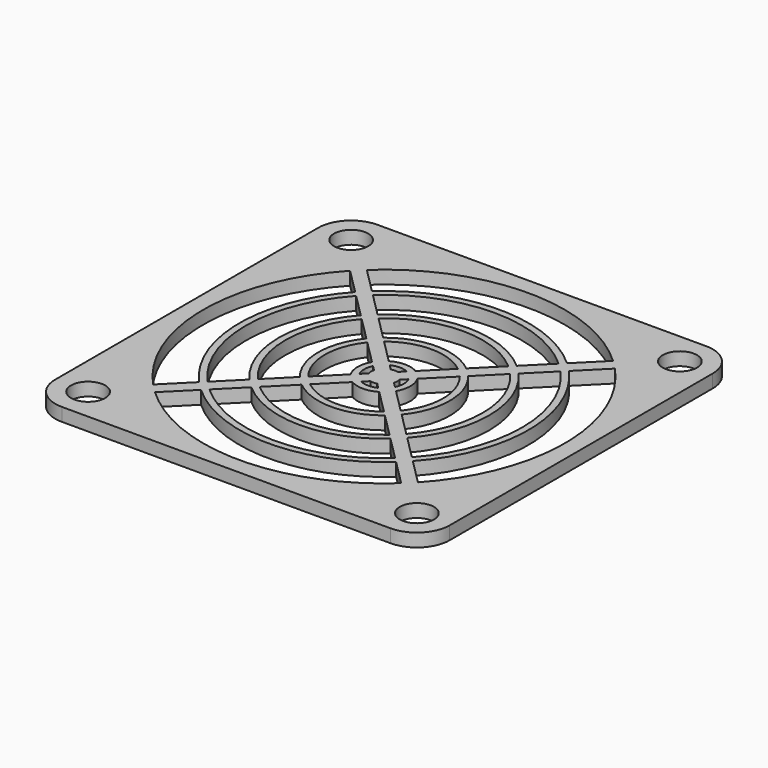
from build123d import *

# Parameters (mm, degrees)
F0_W     = 60
F0_H     = 60
F0_R     = 2.6
F1_DEPTH = 2
F2_R     = 5


with BuildPart() as f1:
    # F0 (on Top) → F1 (new body)
    with BuildSketch(Plane.XY):
        Rectangle(F0_W, F0_H)
        with Locations((-25, -25)):
            Circle(F0_R, mode=Mode.SUBTRACT)
        with BuildLine():
            Line((-15.539504, 14.12529), (-11.998697, 10.584483))
            ThreePointArc((-11.998697, 10.584483), (-16, 0), (-11.998697, -10.584483))
            Line((-11.998697, -10.584483), (-15.539504, -14.12529))
            ThreePointArc((-15.539504, -14.12529), (-21, 0), (-15.539504, 14.12529))
        make_face(mode=Mode.SUBTRACT)
        with BuildLine():
            ThreePointArc((18.725469, -20.139683), (0, -27.5), (-18.725469, -20.139683))
            Line((-18.725469, -20.139683), (-14.833163, -16.247377))
            ThreePointArc((-14.833163, -16.247377), (0, -22), (14.833163, -16.247377))
            Line((14.833163, -16.247377), (18.725469, -20.139683))
        make_face(mode=Mode.SUBTRACT)
        with BuildLine():
            ThreePointArc((14.12529, -15.539504), (0, -21), (-14.12529, -15.539504))
            Line((-14.12529, -15.539504), (-10.584483, -11.998697))
            ThreePointArc((-10.584483, -11.998697), (0, -16), (10.584483, -11.998697))
            Line((10.584483, -11.998697), (14.12529, -15.539504))
        make_face(mode=Mode.SUBTRACT)
        with Locations((25, -25)):
            Circle(F0_R, mode=Mode.SUBTRACT)
        with BuildLine():
            Line((-9.875898, -11.290112), (-6.328517, -7.74273))
            ThreePointArc((-6.328517, -7.74273), (0, -10), (6.328517, -7.74273))
            Line((6.328517, -7.74273), (9.875898, -11.290112))
            ThreePointArc((9.875898, -11.290112), (0, -15), (-9.875898, -11.290112))
        make_face(mode=Mode.SUBTRACT)
        with BuildLine():
            Line((-5.617449, -7.031662), (-2.031506, -3.44572))
            ThreePointArc((-2.031506, -3.44572), (0, -4), (2.031506, -3.44572))
            Line((2.031506, -3.44572), (5.617449, -7.031662))
            ThreePointArc((5.617449, -7.031662), (0, -9), (-5.617449, -7.031662))
        make_face(mode=Mode.SUBTRACT)
        with BuildLine():
            Line((0.517638, -1.931852), (1.292893, -2.707107))
            ThreePointArc((1.292893, -2.707107), (0, -3), (-1.292893, -2.707107))
            Line((-1.292893, -2.707107), (-0.517638, -1.931852))
            ThreePointArc((-0.517638, -1.931852), (0, -2), (0.517638, -1.931852))
        make_face(mode=Mode.SUBTRACT)
        with BuildLine():
            Line((-20.139683, 18.725469), (-16.247377, 14.833163))
            ThreePointArc((-16.247377, 14.833163), (-22, 0), (-16.247377, -14.833163))
            Line((-16.247377, -14.833163), (-20.139683, -18.725469))
            ThreePointArc((-20.139683, -18.725469), (-27.5, 0), (-20.139683, 18.725469))
        make_face(mode=Mode.SUBTRACT)
        with BuildLine():
            ThreePointArc((-11.290112, -9.875898), (-15, 0), (-11.290112, 9.875898))
            Line((-11.290112, 9.875898), (-7.74273, 6.328517))
            ThreePointArc((-7.74273, 6.328517), (-10, 0), (-7.74273, -6.328517))
            Line((-7.74273, -6.328517), (-11.290112, -9.875898))
        make_face(mode=Mode.SUBTRACT)
        with BuildLine():
            ThreePointArc((-7.031662, -5.617449), (-9, 0), (-7.031662, 5.617449))
            Line((-7.031662, 5.617449), (-3.44572, 2.031506))
            ThreePointArc((-3.44572, 2.031506), (-4, 0), (-3.44572, -2.031506))
            Line((-3.44572, -2.031506), (-7.031662, -5.617449))
        make_face(mode=Mode.SUBTRACT)
        with BuildLine():
            ThreePointArc((-2.707107, -1.292893), (-3, 0), (-2.707107, 1.292893))
            Line((-2.707107, 1.292893), (-1.931852, 0.517638))
            ThreePointArc((-1.931852, 0.517638), (-2, 0), (-1.931852, -0.517638))
            Line((-1.931852, -0.517638), (-2.707107, -1.292893))
        make_face(mode=Mode.SUBTRACT)
        with Locations((-25, 25)):
            Circle(F0_R, mode=Mode.SUBTRACT)
        with BuildLine():
            Line((2.707107, -1.292893), (1.931852, -0.517638))
            ThreePointArc((1.931852, -0.517638), (2, 0), (1.931852, 0.517638))
            Line((1.931852, 0.517638), (2.707107, 1.292893))
            ThreePointArc((2.707107, 1.292893), (3, 0), (2.707107, -1.292893))
        make_face(mode=Mode.SUBTRACT)
        with BuildLine():
            Line((-0.517638, 1.931852), (-1.292893, 2.707107))
            ThreePointArc((-1.292893, 2.707107), (0, 3), (1.292893, 2.707107))
            Line((1.292893, 2.707107), (0.517638, 1.931852))
            ThreePointArc((0.517638, 1.931852), (0, 2), (-0.517638, 1.931852))
        make_face(mode=Mode.SUBTRACT)
        with BuildLine():
            Line((7.031662, -5.617449), (3.44572, -2.031506))
            ThreePointArc((3.44572, -2.031506), (4, 0), (3.44572, 2.031506))
            Line((3.44572, 2.031506), (7.031662, 5.617449))
            ThreePointArc((7.031662, 5.617449), (9, 0), (7.031662, -5.617449))
        make_face(mode=Mode.SUBTRACT)
        with BuildLine():
            Line((-2.031506, 3.44572), (-5.617449, 7.031662))
            ThreePointArc((-5.617449, 7.031662), (0, 9), (5.617449, 7.031662))
            Line((5.617449, 7.031662), (2.031506, 3.44572))
            ThreePointArc((2.031506, 3.44572), (0, 4), (-2.031506, 3.44572))
        make_face(mode=Mode.SUBTRACT)
        with BuildLine():
            ThreePointArc((11.290112, 9.875898), (15, 0), (11.290112, -9.875898))
            Line((11.290112, -9.875898), (7.74273, -6.328517))
            ThreePointArc((7.74273, -6.328517), (10, 0), (7.74273, 6.328517))
            Line((7.74273, 6.328517), (11.290112, 9.875898))
        make_face(mode=Mode.SUBTRACT)
        with BuildLine():
            Line((-6.328517, 7.74273), (-9.875898, 11.290112))
            ThreePointArc((-9.875898, 11.290112), (0, 15), (9.875898, 11.290112))
            Line((9.875898, 11.290112), (6.328517, 7.74273))
            ThreePointArc((6.328517, 7.74273), (0, 10), (-6.328517, 7.74273))
        make_face(mode=Mode.SUBTRACT)
        with BuildLine():
            Line((15.539504, -14.12529), (11.998697, -10.584483))
            ThreePointArc((11.998697, -10.584483), (16, 0), (11.998697, 10.584483))
            Line((11.998697, 10.584483), (15.539504, 14.12529))
            ThreePointArc((15.539504, 14.12529), (21, 0), (15.539504, -14.12529))
        make_face(mode=Mode.SUBTRACT)
        with BuildLine():
            Line((16.247377, 14.833163), (20.139683, 18.725469))
            ThreePointArc((20.139683, 18.725469), (27.5, 0), (20.139683, -18.725469))
            Line((20.139683, -18.725469), (16.247377, -14.833163))
            ThreePointArc((16.247377, -14.833163), (22, 0), (16.247377, 14.833163))
        make_face(mode=Mode.SUBTRACT)
        with BuildLine():
            Line((-10.584483, 11.998697), (-14.12529, 15.539504))
            ThreePointArc((-14.12529, 15.539504), (0, 21), (14.12529, 15.539504))
            Line((14.12529, 15.539504), (10.584483, 11.998697))
            ThreePointArc((10.584483, 11.998697), (0, 16), (-10.584483, 11.998697))
        make_face(mode=Mode.SUBTRACT)
        with BuildLine():
            Line((-14.833163, 16.247377), (-18.725469, 20.139683))
            ThreePointArc((-18.725469, 20.139683), (0, 27.5), (18.725469, 20.139683))
            Line((18.725469, 20.139683), (14.833163, 16.247377))
            ThreePointArc((14.833163, 16.247377), (0, 22), (-14.833163, 16.247377))
        make_face(mode=Mode.SUBTRACT)
        with Locations((25, 25)):
            Circle(F0_R, mode=Mode.SUBTRACT)
    extrude(amount=F1_DEPTH)

    # F2
    f2_edges = [f1.edges().sort_by_distance(p)[0] for p in [
        (30, 30, 1),
        (-30, 30, 1),
        (-30, -30, 1),
        (30, -30, 1),
    ]]
    fillet(f2_edges, radius=F2_R)


solid = f1.part
